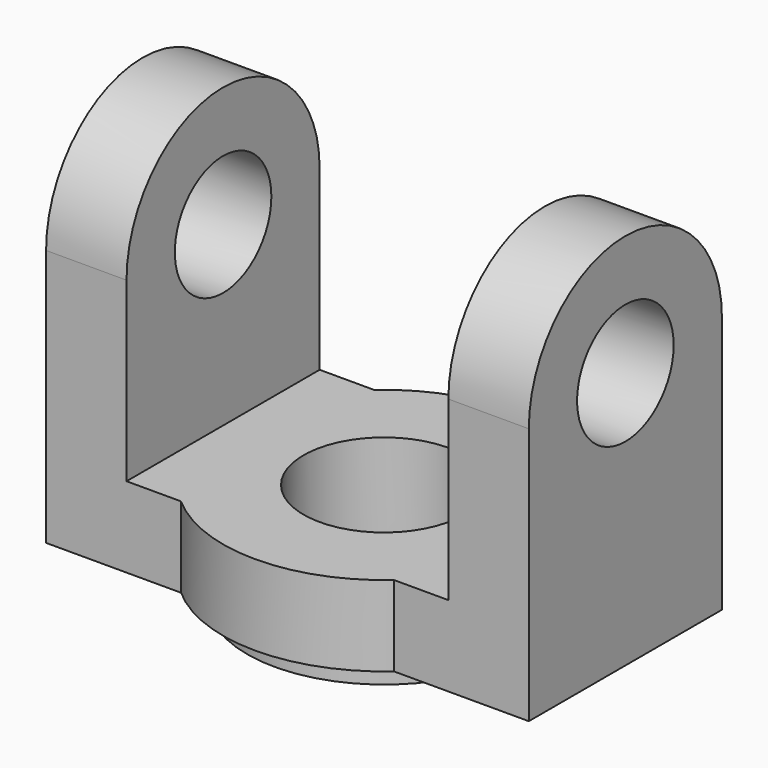
from build123d import *

# Parameters (mm, degrees)
F0_R          = 17
F1_DEPTH      = 3
F3_DEPTH      = 50
F4_R          = 7.5
F5_DEPTH      = 60.001
F7_DEPTH      = 25
F7_DEPTH_BACK = 25
F8_R          = 10
F9_DEPTH      = 13.001


with BuildPart() as f1:
    # F0 (on Top) → F1 (new body)
    with BuildSketch(Plane.XY):
        Circle(F0_R)
    extrude(amount=F1_DEPTH)

    # F2 (on face) → F3 (join)
    with BuildSketch(Plane.XY.offset(3)):
        with BuildLine():
            Line((-13.2287565553, 15), (-30, 15))
            Line((-30, 15), (-30, -15))
            Line((-30, -15), (-13.2287565553, -15))
            ThreePointArc((-13.2287565553, -15), (0, -20), (13.2287565553, -15))
            Line((13.2287565553, -15), (30, -15))
            Line((30, -15), (30, 15))
            Line((30, 15), (13.2287565553, 15))
            ThreePointArc((13.2287565553, 15), (0, 20), (-13.2287565553, 15))
        make_face()
    extrude(amount=F3_DEPTH)

    # F4 (on face) → F5 (cut, through all)
    with BuildSketch(Plane.YZ.offset(30)):
        with Locations((0, 35)):
            Circle(F4_R)
        with BuildLine():
            ThreePointArc((-15, 35), (0, 50), (15, 35))
            Line((15, 35), (15, 53))
            Line((15, 53), (-15, 53))
            Line((-15, 53), (-15, 35))
        make_face()
    extrude(amount=-F5_DEPTH, mode=Mode.SUBTRACT)

    # F6 (on Front) → F7 (cut, two sides)
    with BuildSketch(Plane.XZ) as f7_sk:
        Polygon((-13.2287565553, 13), (13.2287565553, 13), (13.2287565553, 35), (13.2287565553, 53), (-13.2287565553, 53), (-13.2287565553, 35), align=None)
        Polygon((13.2287565553, 35), (13.2287565553, 13), (20, 13), (20, 53), (13.2287565553, 53), align=None)
        Polygon((-20, 13), (-13.2287565553, 13), (-13.2287565553, 35), (-13.2287565553, 53), (-20, 53), align=None)
    extrude(amount=-F7_DEPTH, mode=Mode.SUBTRACT)
    extrude(f7_sk.sketch, amount=F7_DEPTH_BACK, mode=Mode.SUBTRACT)

    # F8 (on face) → F9 (cut, through all)
    with BuildSketch(Plane.XY.offset(13)):
        Circle(F8_R)
    extrude(amount=-F9_DEPTH, mode=Mode.SUBTRACT)


solid = f1.part
